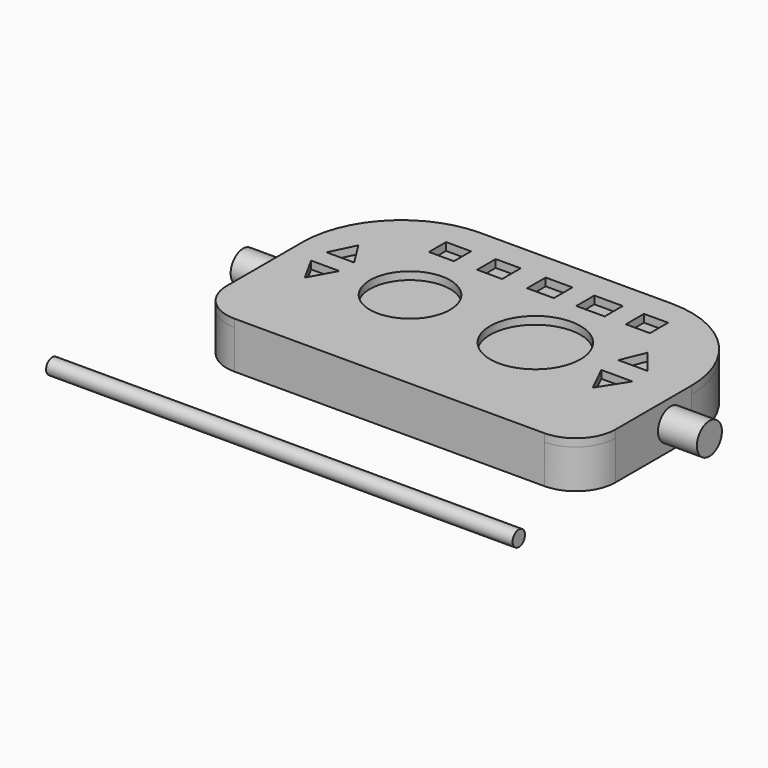
from build123d import *

# Parameters (mm, degrees)
F0_W      = 50
F0_H      = 30
F1_DEPTH  = 5
F2_R      = 12.7
F3_R      = 12.7
F4_R      = 5.08
F5_R      = 5.08
F6_R      = 5.8080634673
F6_R_2    = 5.159256853
F6_W      = 3.2141748816
F6_H      = 2.7550067753
F6_W_2    = 3.2141786069
F6_H_2    = 2.9845908284
F6_W_3    = 3.4437589347
F6_W_4    = 3.6444179714
F6_H_3    = 2.9124803841
F6_W_5    = 3.0977539718
F6_H_4    = 2.9155332595
F7_DEPTH  = 1
F8_R      = 2
F9_DEPTH  = 5
F11_R     = 2.0136494007
F12_DEPTH = 5
F13_R     = 1


with BuildPart() as f1:
    # F0 (on Top) → F1 (new body)
    with BuildSketch(Plane.XY):
        with Locations((25, 15)):
            Rectangle(F0_W, F0_H)
    extrude(amount=F1_DEPTH)

    # F2
    f2_edges = [f1.edges().sort_by_distance(p)[0] for p in [
        (0, 30, 2.5),
    ]]
    fillet(f2_edges, radius=F2_R)

    # F3
    f3_edges = [f1.edges().sort_by_distance(p)[0] for p in [
        (50, 30, 2.5),
    ]]
    fillet(f3_edges, radius=F3_R)

    # F4
    f4_edges = [f1.edges().sort_by_distance(p)[0] for p in [
        (0, 0, 2.5),
    ]]
    fillet(f4_edges, radius=F4_R)

    # F5
    f5_edges = [f1.edges().sort_by_distance(p)[0] for p in [
        (50, 0, 2.5),
    ]]
    fillet(f5_edges, radius=F5_R)

    # F6 (on face) → F7 (join)
    with BuildSketch(Plane.XY.offset(5)):
        with BuildLine():
            ThreePointArc((0, 5.08), (1.4878975516, 1.4878975516), (5.08, 0))
            Line((5.08, 0), (44.92, 0))
            ThreePointArc((44.92, 0), (48.5121024484, 1.4878975516), (50, 5.08))
            Line((50, 5.08), (50, 17.3))
            ThreePointArc((50, 17.3), (46.2802561211, 26.2802561211), (37.3, 30))
            Line((37.3, 30), (12.7, 30))
            ThreePointArc((12.7, 30), (3.7197438789, 26.2802561211), (0, 17.3))
            Line((0, 17.3), (0, 5.08))
        make_face()
        Polygon((4.9976129085, 11.395663023), (3.17540369, 14.6756386384), (6.8198214285, 14.6756386384), align=None, mode=Mode.SUBTRACT)
        with Locations((31.9121703506, 14.8081630468)):
            Circle(F6_R, mode=Mode.SUBTRACT)
        Polygon((42.5351150334, 10.7578895986), (40.8040173352, 14.3111972138), (44.8128767312, 14.3111972138), align=None, mode=Mode.SUBTRACT)
        Polygon((3.2665142789, 17.0445106924), (4.8153917305, 20.2333759516), (6.8198214285, 17.0445106924), align=None, mode=Mode.SUBTRACT)
        with Locations((15.6117081642, 15.0377471)):
            Circle(F6_R_2, mode=Mode.SUBTRACT)
        with Locations((12.8566995263, 24.9098567292)):
            Rectangle(F6_W, F6_H, mode=Mode.SUBTRACT)
        with Locations((19.0554661676, 25.0246487558)):
            Rectangle(F6_W_2, F6_H_2, mode=Mode.SUBTRACT)
        Polygon((44.5395484567, 17.0445106924), (40.8040173352, 17.0445106924), (42.079564184, 20.1422665268), align=None, mode=Mode.SUBTRACT)
        with Locations((25.59860982, 25.0246487558)):
            Rectangle(F6_W_3, F6_H_2, mode=Mode.SUBTRACT)
        with Locations((31.9663044065, 25.0607039779)):
            Rectangle(F6_W_4, F6_H_3, mode=Mode.SUBTRACT)
        with Locations((38.0707029253, 25.0622304156)):
            Rectangle(F6_W_5, F6_H_4, mode=Mode.SUBTRACT)
    extrude(amount=F7_DEPTH)

    # F8 (on face) → F9 (join)
    with BuildSketch(Plane(origin=(0, 0, 0), x_dir=(0, -1, 0), z_dir=(-1, 0, 0))):
        with Locations((-13.9625295997, 3)):
            Circle(F8_R)
    extrude(amount=F9_DEPTH)

    # F11 (on offset) → F12 (join)
    with BuildSketch(Plane.YZ.offset(50)):
        with Locations((13.9375375584, 2.9941480607)):
            Circle(F11_R)
    extrude(amount=F12_DEPTH)


with BuildPart() as f15:
    # F15: sweep along a path in F14
    with BuildLine(Plane.XY) as f15_path:
        Line((49.9296188354, -10.4407463223), (-10.0703811646, -10.4407463223))
    # F13 (on offset) → F15 (sweep)
    with BuildSketch(Plane.YZ.offset(50)):
        with Locations((-10.4618860946, 0)):
            Circle(F13_R)
    sweep(path=f15_path.line)


solid = Compound([f1.part, f15.part])
